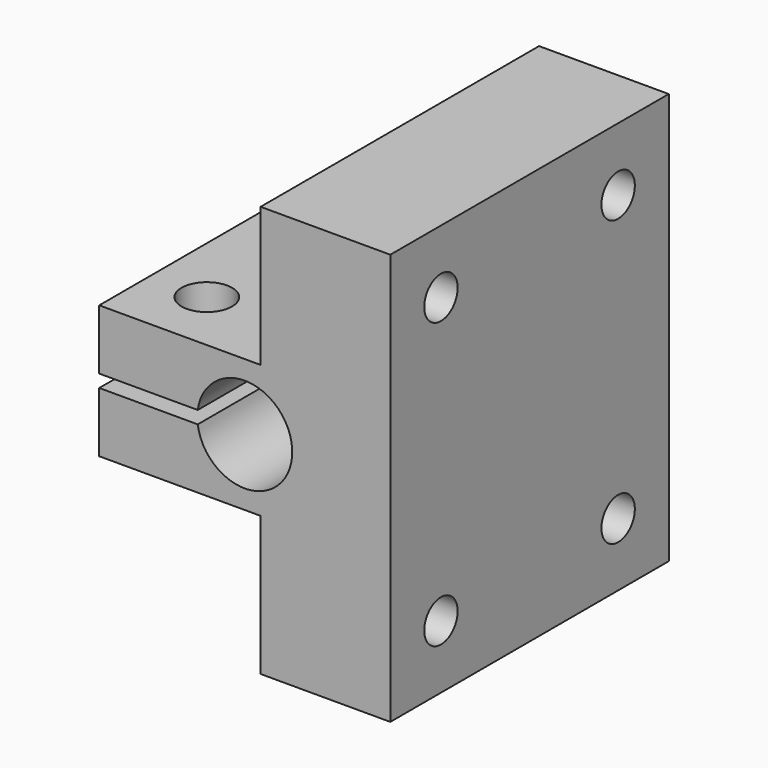
from build123d import *

# Parameters (mm, degrees)
F1_DEPTH = 55
F2_R     = 4
F3_DEPTH = 25
F4_R     = 5
F4_R_2   = 3.3
F5_DEPTH = 6
F6_DEPTH = 25
F7_R     = 5
F7_R_2   = 3.3
F8_DEPTH = 6
F9_DEPTH = 25


with BuildPart() as f1:
    # F0 (on Front) → F1 (new body)
    with BuildSketch(Plane.XZ):
        with BuildLine():
            Line((-36.317323, 43), (-56.817323, 43))
            Line((-56.817323, 43), (-56.817323, 21))
            Line((-56.817323, 21), (-82.317323, 21))
            Line((-82.317323, 21), (-82.317323, 11.5))
            Line((-82.317323, 11.5), (-66.750358, 11.5))
            ThreePointArc((-66.750358, 11.5), (-51.817323, 10.5), (-66.750358, 9.5))
            Line((-66.750358, 9.5), (-82.317323, 9.5))
            Line((-82.317323, 9.5), (-82.317323, 0))
            Line((-82.317323, 0), (-56.817323, 0))
            Line((-56.817323, 0), (-56.817323, -22))
            Line((-56.817323, -22), (-36.317323, -22))
            Line((-36.317323, -22), (-36.317323, 43))
        make_face()
    extrude(amount=F1_DEPTH)

    # F2 (on face) → F3 (cut)
    with BuildSketch(Plane.XY.offset(21)):
        with Locations((-73.317323, -10)):
            Circle(F2_R)
        with Locations((-73.317323, -45)):
            Circle(F2_R)
    extrude(amount=-F3_DEPTH, mode=Mode.SUBTRACT)

    # F4 (on face) → F5 (cut)
    with BuildSketch(Plane(origin=(-56.817323, 0, 0), x_dir=(0, -1, 0), z_dir=(-1, 0, 0))):
        with Locations((10, -12)):
            Circle(F4_R)
        with Locations((10, -12)):
            Circle(F4_R_2, mode=Mode.SUBTRACT)
        with Locations((10, -12)):
            Circle(F4_R_2)
        with Locations((45, -12)):
            Circle(F4_R_2)
        with Locations((45, -12)):
            Circle(F4_R)
        with Locations((45, -12)):
            Circle(F4_R_2, mode=Mode.SUBTRACT)
    extrude(amount=-F5_DEPTH, mode=Mode.SUBTRACT)

    # F4 (on face) → F6 (cut)
    with BuildSketch(Plane(origin=(-56.817323, 0, 0), x_dir=(0, -1, 0), z_dir=(-1, 0, 0))):
        with Locations((10, -12)):
            Circle(F4_R_2)
        with Locations((45, -12)):
            Circle(F4_R_2)
    extrude(amount=-F6_DEPTH, mode=Mode.SUBTRACT)

    # F7 (on face) → F8 (cut)
    with BuildSketch(Plane(origin=(-56.817323, 0, 0), x_dir=(0, -1, 0), z_dir=(-1, 0, 0))):
        with Locations((10, 33)):
            Circle(F7_R)
        with Locations((10, 33)):
            Circle(F7_R_2, mode=Mode.SUBTRACT)
        with Locations((45, 33)):
            Circle(F7_R)
        with Locations((45, 33)):
            Circle(F7_R_2, mode=Mode.SUBTRACT)
    extrude(amount=-F8_DEPTH, mode=Mode.SUBTRACT)

    # F7 (on face) → F9 (cut)
    with BuildSketch(Plane(origin=(-56.817323, 0, 0), x_dir=(0, -1, 0), z_dir=(-1, 0, 0))):
        with Locations((10, 33)):
            Circle(F7_R_2)
        with Locations((45, 33)):
            Circle(F7_R_2)
    extrude(amount=-F9_DEPTH, mode=Mode.SUBTRACT)


solid = f1.part
